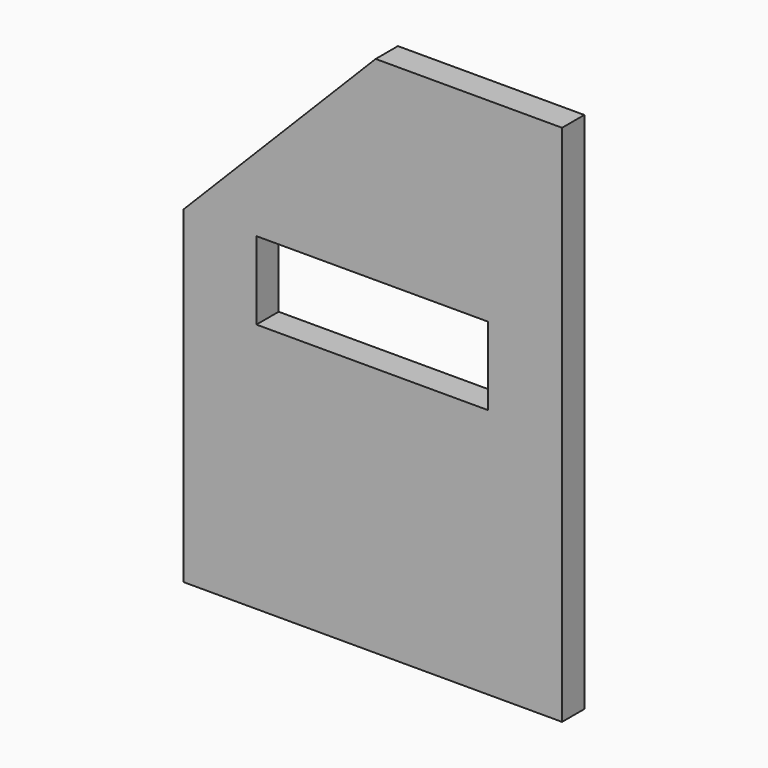
from build123d import *

# Parameters (mm, degrees)
F1_DEPTH = 2.5
F2_W     = 41.65861
F2_H     = 13.999665
F3_DEPTH = 25


with BuildPart() as f1:
    # F0 (on Front) → F1 (new body, symmetric)
    with BuildSketch(Plane.XZ):
        Polygon((-34.5, 0), (-34.5, -59), (33.5, -59), (33.5, 35), (0, 35), align=None)
    extrude(amount=F1_DEPTH, both=True)

    # F2 (on face) → F3 (cut)
    with BuildSketch(Plane.XZ.offset(2.5)):
        with Locations((-0.598928, -6.999833)):
            Rectangle(F2_W, F2_H)
    extrude(amount=-F3_DEPTH, mode=Mode.SUBTRACT)


solid = f1.part
